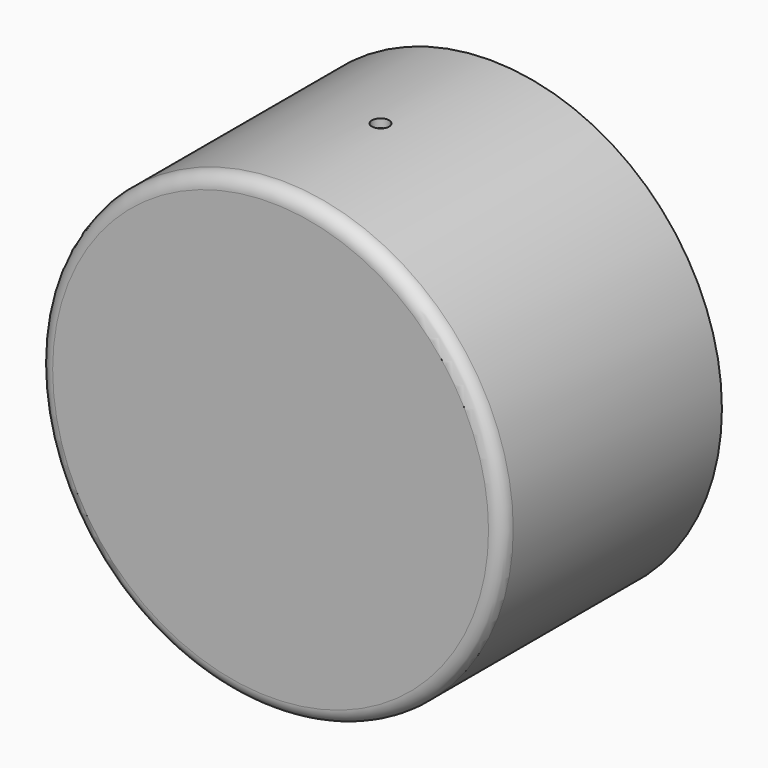
from build123d import *

# Parameters (mm, degrees)
F0_R     = 85.725
F1_DEPTH = 101.6
F2_R     = 82.55
F3_DEPTH = 96.52
F4_R     = 5.08
F5_R     = 3.175
F6_DEPTH = 254


with BuildPart() as f1:
    # F0 (on Front) → F1 (new body)
    with BuildSketch(Plane.XZ):
        Circle(F0_R)
    extrude(amount=-F1_DEPTH)

    # F2 (on face) → F3 (cut)
    with BuildSketch(Plane(origin=(0, 101.6, 0), x_dir=(-1, 0, 0), z_dir=(0, 1, 0))):
        Circle(F2_R)
    extrude(amount=-F3_DEPTH, mode=Mode.SUBTRACT)

    # F4
    f4_edges = [f1.edges().sort_by_distance(p)[0] for p in [
        (-85.725, 0, 0),
    ]]
    fillet(f4_edges, radius=F4_R)

    # F5 (on Top) → F6 (cut, symmetric)
    with BuildSketch(Plane.XY):
        with Locations((0, 50.8)):
            Circle(F5_R)
    extrude(amount=F6_DEPTH, both=True, mode=Mode.SUBTRACT)


solid = f1.part
